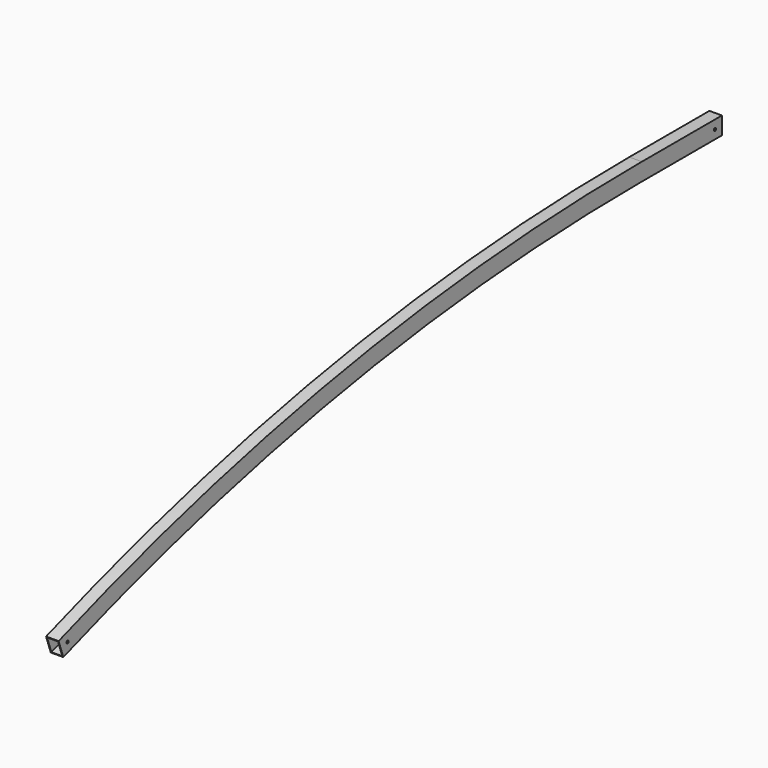
from build123d import *

# Parameters (mm, degrees)
F0_W   = 50
F0_H   = 70
F0_W_2 = 44
F0_H_2 = 64
F4_D   = 11
F5_D   = 11


with BuildPart() as f2:
    # F2: sweep along a path in F1
    with BuildLine(Plane.YZ) as f2_path:
        Line((0, 0), (-400, 0))
        ThreePointArc((-400, 0), (-1871.3938969562, -125.915397654), (-3300, -500))
    # F0 (on Front) → F2 (sweep)
    with BuildSketch(Plane.XZ):
        Rectangle(F0_W, F0_H)
        Rectangle(F0_W_2, F0_H_2, mode=Mode.SUBTRACT)
    sweep(path=f2_path.line)

    # F4 (through all)
    with Locations(Plane(origin=(-25, 0, 0), x_dir=(0, -1, 0), z_dir=(-1, 0, 0))):
        with Locations((3266.9971003998, -488.3460899095)):
            Hole(F4_D / 2)

    # F5 (through all)
    with Locations(Plane(origin=(-25, 0, 0), x_dir=(0, -1, 0), z_dir=(-1, 0, 0))):
        with Locations((35, 0)):
            Hole(F5_D / 2)


solid = f2.part
